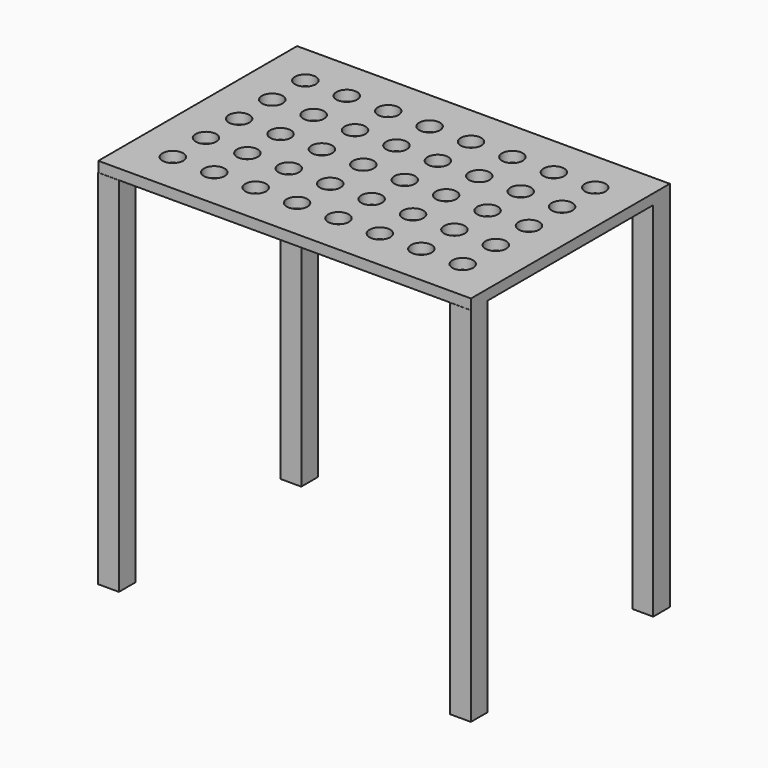
from build123d import *

# Parameters (mm, degrees)
F0_W     = 914.4
F0_H     = 609.6
F0_R     = 25.4
F1_DEPTH = 25.4
F2_W     = 50.8
F2_H     = 50.8
F3_DEPTH = 889


with BuildPart() as f1:
    # F0 (on Top) → F1 (new body)
    with BuildSketch(Plane.XY):
        with Locations((-457.2, -304.8)):
            Rectangle(F0_W, F0_H)
        with Locations((-812.79999, -508)):
            Circle(F0_R, mode=Mode.SUBTRACT)
        with Locations((-711.19999, -508)):
            Circle(F0_R, mode=Mode.SUBTRACT)
        with Locations((-609.599998, -508)):
            Circle(F0_R, mode=Mode.SUBTRACT)
        with Locations((-507.999998, -508)):
            Circle(F0_R, mode=Mode.SUBTRACT)
        with Locations((-812.8, -406.399995)):
            Circle(F0_R, mode=Mode.SUBTRACT)
        with Locations((-711.2, -406.399995)):
            Circle(F0_R, mode=Mode.SUBTRACT)
        with Locations((-609.600008, -406.399995)):
            Circle(F0_R, mode=Mode.SUBTRACT)
        with Locations((-508.000008, -406.399995)):
            Circle(F0_R, mode=Mode.SUBTRACT)
        with Locations((-406.399985, -508)):
            Circle(F0_R, mode=Mode.SUBTRACT)
        with Locations((-304.799985, -508)):
            Circle(F0_R, mode=Mode.SUBTRACT)
        with Locations((-203.199993, -508)):
            Circle(F0_R, mode=Mode.SUBTRACT)
        with Locations((-101.599993, -508)):
            Circle(F0_R, mode=Mode.SUBTRACT)
        with Locations((-406.399995, -406.399995)):
            Circle(F0_R, mode=Mode.SUBTRACT)
        with Locations((-304.799995, -406.399995)):
            Circle(F0_R, mode=Mode.SUBTRACT)
        with Locations((-203.200003, -406.399995)):
            Circle(F0_R, mode=Mode.SUBTRACT)
        with Locations((-101.600003, -406.399995)):
            Circle(F0_R, mode=Mode.SUBTRACT)
        with Locations((-812.79999, -304.8)):
            Circle(F0_R, mode=Mode.SUBTRACT)
        with Locations((-711.19999, -304.8)):
            Circle(F0_R, mode=Mode.SUBTRACT)
        with Locations((-812.79999, -203.2)):
            Circle(F0_R, mode=Mode.SUBTRACT)
        with Locations((-711.19999, -203.2)):
            Circle(F0_R, mode=Mode.SUBTRACT)
        with Locations((-609.599998, -304.8)):
            Circle(F0_R, mode=Mode.SUBTRACT)
        with Locations((-507.999998, -304.8)):
            Circle(F0_R, mode=Mode.SUBTRACT)
        with Locations((-609.599998, -203.2)):
            Circle(F0_R, mode=Mode.SUBTRACT)
        with Locations((-507.999998, -203.2)):
            Circle(F0_R, mode=Mode.SUBTRACT)
        with Locations((-812.8, -101.6)):
            Circle(F0_R, mode=Mode.SUBTRACT)
        with Locations((-711.2, -101.6)):
            Circle(F0_R, mode=Mode.SUBTRACT)
        with Locations((-609.600008, -101.6)):
            Circle(F0_R, mode=Mode.SUBTRACT)
        with Locations((-508.000008, -101.6)):
            Circle(F0_R, mode=Mode.SUBTRACT)
        with Locations((-406.399985, -304.8)):
            Circle(F0_R, mode=Mode.SUBTRACT)
        with Locations((-304.799985, -304.8)):
            Circle(F0_R, mode=Mode.SUBTRACT)
        with Locations((-406.399985, -203.2)):
            Circle(F0_R, mode=Mode.SUBTRACT)
        with Locations((-304.799985, -203.2)):
            Circle(F0_R, mode=Mode.SUBTRACT)
        with Locations((-203.199993, -304.8)):
            Circle(F0_R, mode=Mode.SUBTRACT)
        with Locations((-101.599993, -304.8)):
            Circle(F0_R, mode=Mode.SUBTRACT)
        with Locations((-203.199993, -203.2)):
            Circle(F0_R, mode=Mode.SUBTRACT)
        with Locations((-101.599993, -203.2)):
            Circle(F0_R, mode=Mode.SUBTRACT)
        with Locations((-406.399995, -101.6)):
            Circle(F0_R, mode=Mode.SUBTRACT)
        with Locations((-304.799995, -101.6)):
            Circle(F0_R, mode=Mode.SUBTRACT)
        with Locations((-203.200003, -101.6)):
            Circle(F0_R, mode=Mode.SUBTRACT)
        with Locations((-101.600003, -101.6)):
            Circle(F0_R, mode=Mode.SUBTRACT)
    extrude(amount=F1_DEPTH)

    # F2 (on Top) → F3 (join)
    with BuildSketch(Plane.XY):
        with Locations((-888.881368, -584.618909)):
            Rectangle(F2_W, F2_H)
        with Locations((-25.4, -584.618909)):
            Rectangle(F2_W, F2_H)
        with Locations((-25.4, -25.4)):
            Rectangle(F2_W, F2_H)
        with Locations((-888.881368, -25.4)):
            Rectangle(F2_W, F2_H)
    extrude(amount=-F3_DEPTH)


solid = f1.part
